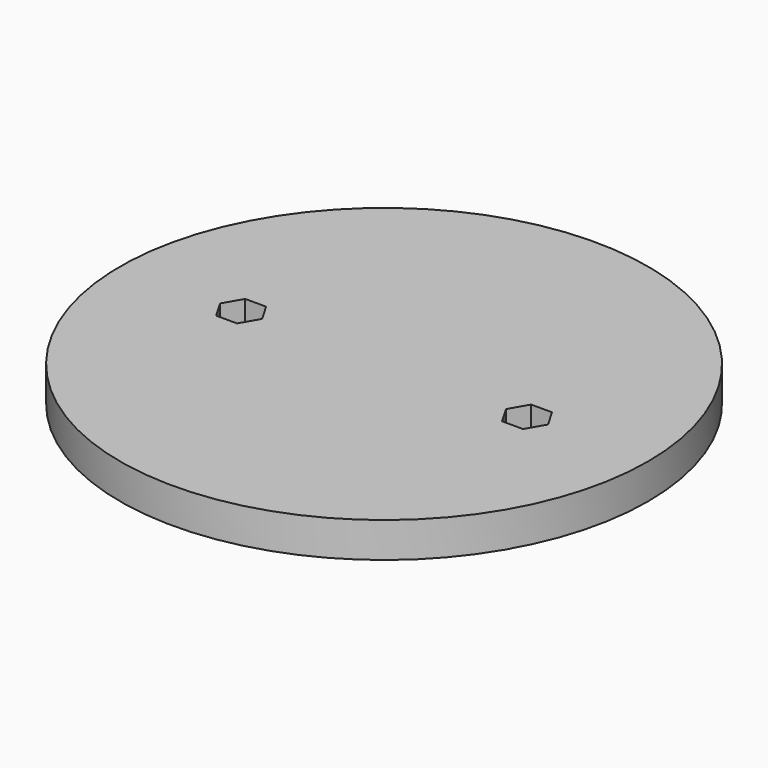
from build123d import *

# Parameters (mm, degrees)
F0_R     = 60
F0_R_2   = 2.6
F1_DEPTH = 8
F2_R     = 2.6
F3_DEPTH = 5


with BuildPart() as f1:
    # F0 (on Top) → F1 (new body)
    with BuildSketch(Plane.XY):
        Circle(F0_R)
        with Locations((-32.5, 0)):
            Circle(F0_R_2, mode=Mode.SUBTRACT)
        with Locations((32.5, 0)):
            Circle(F0_R_2, mode=Mode.SUBTRACT)
    extrude(amount=F1_DEPTH)

    # F2 (on face) → F3 (cut)
    with BuildSketch(Plane.XY.offset(8)):
        Polygon((37.26314, 0), (34.88157, 4.125), (30.11843, 4.125), (27.73686, 0), (30.11843, -4.125), (34.88157, -4.125), align=None)
        with Locations((32.5, 0)):
            Circle(F2_R, mode=Mode.SUBTRACT)
        Polygon((-30.11843, 4.125), (-34.88157, 4.125), (-37.26314, 0), (-34.88157, -4.125), (-30.11843, -4.125), (-27.73686, 0), align=None)
        with Locations((-32.5, 0)):
            Circle(F2_R, mode=Mode.SUBTRACT)
    extrude(amount=-F3_DEPTH, mode=Mode.SUBTRACT)


solid = f1.part
